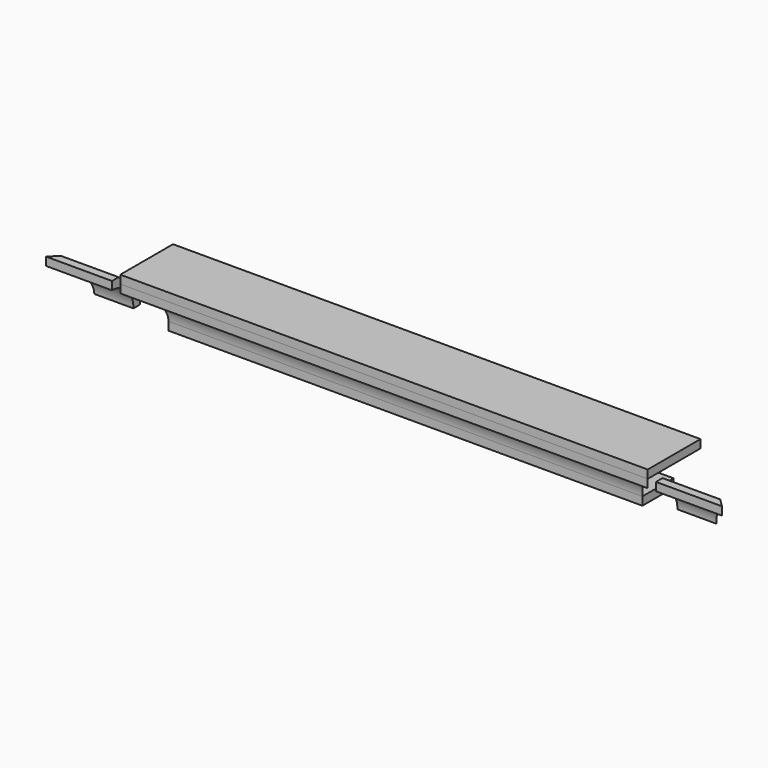
from build123d import *

# Parameters (mm, degrees)
F1_DEPTH = 1041.4
F3_DEPTH = 107.951
F4_W     = 1460.5
F4_H     = 120.65
F5_DEPTH = 25.4
F6_W     = 1625.6
F6_H     = 203.2
F7_DEPTH = 25.4


with BuildPart() as f1:
    # F0 (on Right) → F1 (new body, symmetric)
    with BuildSketch(Plane.YZ):
        with BuildLine():
            Line((-25.4, 0), (0, 0))
            Line((0, 0), (0, 25.4))
            Line((0, 25.4), (-82.55, 107.95))
            Line((-82.55, 107.95), (-107.95, 107.95))
            Line((-107.95, 107.95), (-107.95, 82.55))
            ThreePointArc((-107.95, 82.55), (-49.578335, 58.371665), (-25.4, 0))
        make_face()
    extrude(amount=F1_DEPTH, both=True)

    # F2 (on face) → F3 (cut, through all)
    with BuildSketch(Plane.XY.offset(107.95)):
        Polygon((-1041.4, 0), (-1041.4, -107.95), (-933.45, 0), align=None)
        Polygon((933.45, 0), (1041.4, -107.95), (1041.4, 0), align=None)
        Polygon((-704.85, 0), (-838.2, 0), (-838.2, -107.95), (-812.8, -107.95), align=None)
        Polygon((838.2, -107.95), (838.2, 0), (704.85, 0), (812.8, -107.95), align=None)
    extrude(amount=-F3_DEPTH, mode=Mode.SUBTRACT)


with BuildPart() as f5:
    # F4 (on face) → F5 (new body)
    with BuildSketch(Plane(origin=(0, 0, 0), x_dir=(1, 0, 0), z_dir=(0, 0, -1))):
        with Locations((0, -34.925)):
            Rectangle(F4_W, F4_H)
    extrude(amount=F5_DEPTH)


with BuildPart() as f7:
    # F6 (on face) → F7 (new body)
    with BuildSketch(Plane.XY.offset(107.95)):
        with Locations((0, -6.35)):
            Rectangle(F6_W, F6_H)
    extrude(amount=F7_DEPTH)


solid = Compound([f1.part, f5.part, f7.part])
